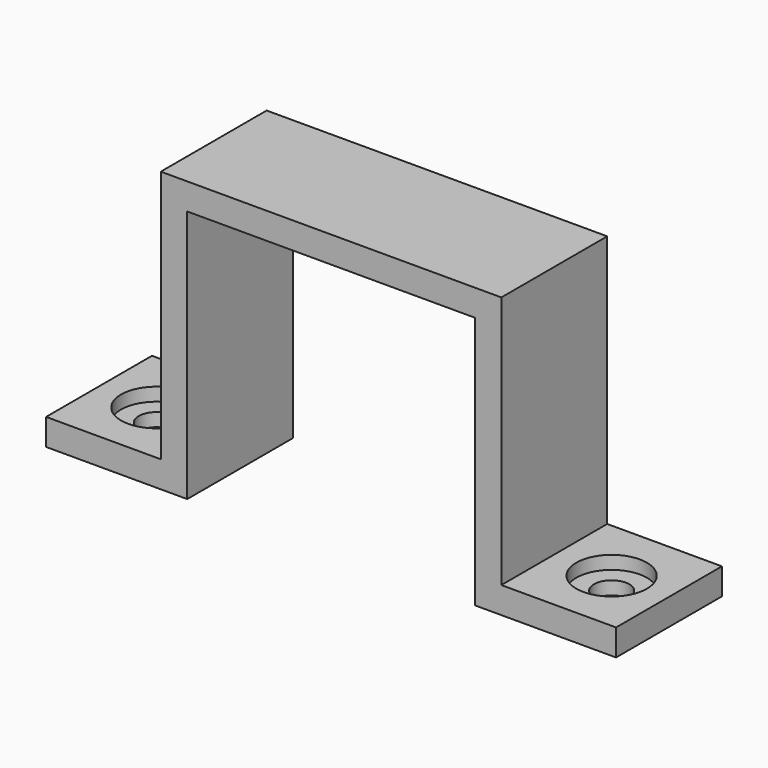
from build123d import *

# Parameters (mm, degrees)
F1_W     = 20.701
F1_H     = 3.81
F1_W_2   = 3.81
F1_H_2   = 32.639
F1_W_3   = 16.51
F2_DEPTH = 19.05
F3_R     = 2.54
F4_DEPTH = 3.811
F5_R     = 5.08
F6_DEPTH = 1.905


with BuildPart() as f2:
    # F1 (on Front) → F2 (new body)
    with BuildSketch(Plane.XZ):
        with Locations((10.3505, 38.354)):
            Rectangle(F1_W, F1_H)
        with Locations((22.606, 38.354)):
            Rectangle(F1_W_2, F1_H)
        with Locations((22.606, 20.1295)):
            Rectangle(F1_W_2, F1_H_2)
        with Locations((22.606, 1.905)):
            Rectangle(F1_W_2, F1_H)
        with Locations((32.766, 1.905)):
            Rectangle(F1_W_3, F1_H)
    extrude(amount=F2_DEPTH)

    # F3 (on face) → F4 (cut, through all)
    with BuildSketch(Plane.XY.offset(3.81)):
        with Locations((32.766, -9.525)):
            Circle(F3_R)
    extrude(amount=-F4_DEPTH, mode=Mode.SUBTRACT)

    # F5 (on face) → F6 (cut)
    with BuildSketch(Plane.XY.offset(3.81)):
        with Locations((32.766, -9.525)):
            Circle(F5_R)
    extrude(amount=-F6_DEPTH, mode=Mode.SUBTRACT)

    # F7: F2 across plane


with BuildPart() as f2_1:
    add(f2.part)
    add(f2.part.mirror(Plane.YZ))


solid = f2_1.part
